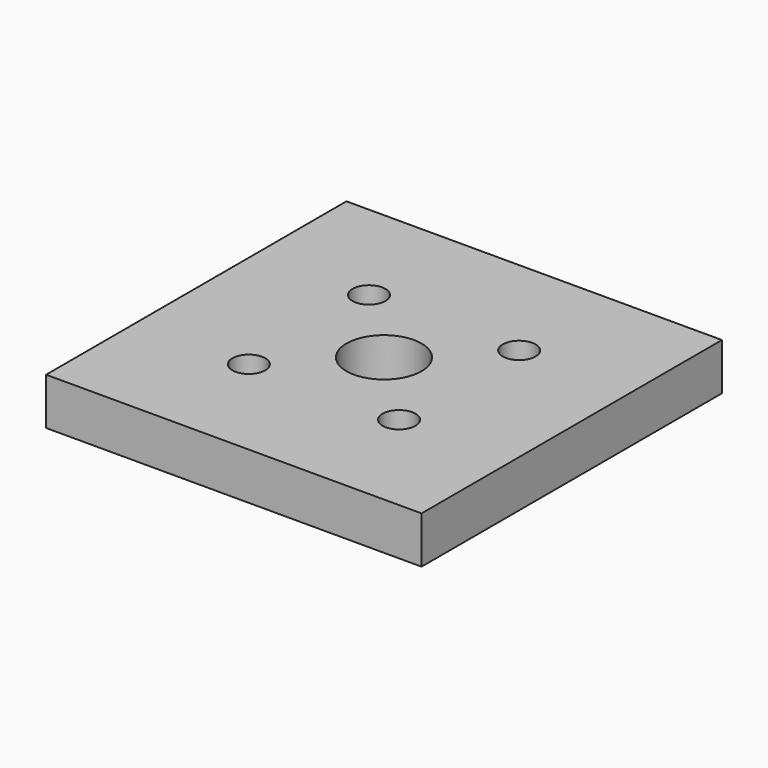
from build123d import *

# Parameters (mm, degrees)
SKETCH_W   = 80
SKETCH_H   = 80
SKETCH_R   = 8
SKETCH_R_2 = 3.5
PAD_DEPTH  = 10


with BuildPart() as part:
    # Sketch → Pad (new body)
    with BuildSketch(Plane.XY):
        with Locations((-40.115967, 0)):
            Rectangle(SKETCH_W, SKETCH_H)
        with Locations((-40.115967, 0)):
            Circle(SKETCH_R, mode=Mode.SUBTRACT)
        with Locations((-24.115967, 16)):
            Circle(SKETCH_R_2, mode=Mode.SUBTRACT)
        with Locations((-56.115967, 16)):
            Circle(SKETCH_R_2, mode=Mode.SUBTRACT)
        with Locations((-56.115967, -16)):
            Circle(SKETCH_R_2, mode=Mode.SUBTRACT)
        with Locations((-24.115967, -16)):
            Circle(SKETCH_R_2, mode=Mode.SUBTRACT)
    extrude(amount=PAD_DEPTH)


solid = part.part
